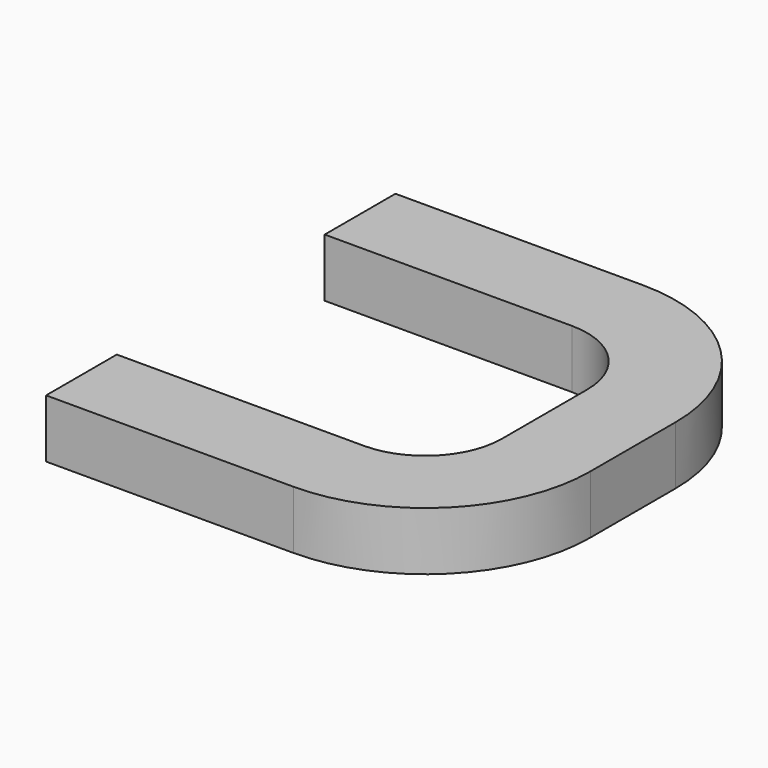
from build123d import *

# Parameters (mm, degrees)
F1_W = 7.327596
F1_H = 4.832284


with BuildPart() as f2:
    # F2: sweep along a path in F0
    with BuildLine(Plane.XY) as f2_path:
        Line((0, 0), (20.490962, 0))
        ThreePointArc((20.490962, 0), (24.981091, -1.859872), (26.840962, -6.35))
        Line((26.840962, -6.35), (26.840962, -15.191156))
        ThreePointArc((26.840962, -15.191156), (24.981091, -19.681284), (20.490962, -21.541156))
        Line((20.490962, -21.541156), (0, -21.541156))
    # F1 (on Right) → F2 (sweep)
    with BuildSketch(Plane.YZ):
        with Locations((3.663798, 2.416142)):
            Rectangle(F1_W, F1_H)
    sweep(path=f2_path.line)


solid = f2.part
